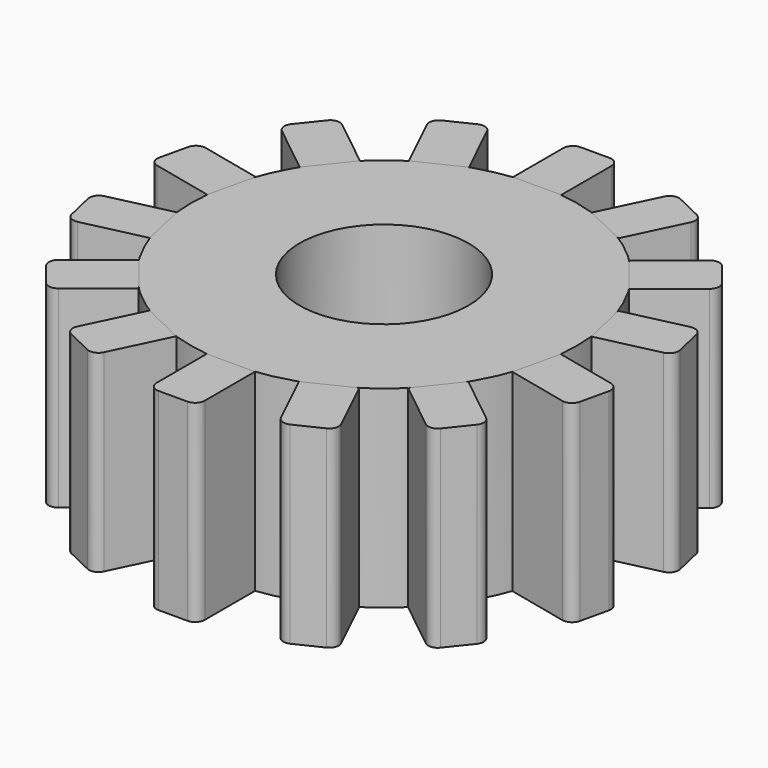
from build123d import *

# Parameters (mm, degrees)
F0_R     = 25.4
F0_R_2   = 11.1125
F2_DEPTH = 25.4
F3_COUNT = 14


with BuildPart() as f2:
    # F0 (on Top) → F2 (new body)
    with BuildSketch(Plane.XY):
        Circle(F0_R)
        Circle(F0_R_2, mode=Mode.SUBTRACT)
    extrude(amount=F2_DEPTH)


with BuildPart() as f2b:
    # F1 (on Top) → F2, piece 2 (new body)
    with BuildSketch(Plane.XY):
        with BuildLine():
            Line((-3.175, 33.4557812379), (-3.175, 25.2007812379))
            Line((-3.175, 25.2007812379), (3.175, 25.2007812379))
            Line((3.175, 25.2007812379), (3.175, 33.4557812379))
            ThreePointArc((3.175, 33.4557812379), (2.8030256121, 34.35380685), (1.905, 34.7257812379))
            Line((1.905, 34.7257812379), (-1.905, 34.7257812379))
            ThreePointArc((-1.905, 34.7257812379), (-2.8030256121, 34.35380685), (-3.175, 33.4557812379))
        make_face()
    extrude(amount=F2_DEPTH)


with BuildPart() as f3_1:
    # F3: instance of F2b
    add(f2b.part.rotate(Axis((0, 0, 0), (0, 0, -1)), 1 * 360 / F3_COUNT))


with BuildPart() as f3_2:
    # F3: instance of F2b
    add(f2b.part.rotate(Axis((0, 0, 0), (0, 0, -1)), 2 * 360 / F3_COUNT))


with BuildPart() as f3_3:
    # F3: instance of F2b
    add(f2b.part.rotate(Axis((0, 0, 0), (0, 0, -1)), 3 * 360 / F3_COUNT))


with BuildPart() as f3_4:
    # F3: instance of F2b
    add(f2b.part.rotate(Axis((0, 0, 0), (0, 0, -1)), 4 * 360 / F3_COUNT))


with BuildPart() as f3_5:
    # F3: instance of F2b
    add(f2b.part.rotate(Axis((0, 0, 0), (0, 0, -1)), 5 * 360 / F3_COUNT))


with BuildPart() as f3_6:
    # F3: instance of F2b
    add(f2b.part.rotate(Axis((0, 0, 0), (0, 0, -1)), 6 * 360 / F3_COUNT))


with BuildPart() as f3_7:
    # F3: instance of F2b
    add(f2b.part.rotate(Axis((0, 0, 0), (0, 0, -1)), 7 * 360 / F3_COUNT))


with BuildPart() as f3_8:
    # F3: instance of F2b
    add(f2b.part.rotate(Axis((0, 0, 0), (0, 0, -1)), 8 * 360 / F3_COUNT))


with BuildPart() as f3_9:
    # F3: instance of F2b
    add(f2b.part.rotate(Axis((0, 0, 0), (0, 0, -1)), 9 * 360 / F3_COUNT))


with BuildPart() as f3_10:
    # F3: instance of F2b
    add(f2b.part.rotate(Axis((0, 0, 0), (0, 0, -1)), 10 * 360 / F3_COUNT))


with BuildPart() as f3_11:
    # F3: instance of F2b
    add(f2b.part.rotate(Axis((0, 0, 0), (0, 0, -1)), 11 * 360 / F3_COUNT))


with BuildPart() as f3_12:
    # F3: instance of F2b
    add(f2b.part.rotate(Axis((0, 0, 0), (0, 0, -1)), 12 * 360 / F3_COUNT))


with BuildPart() as f3_13:
    # F3: instance of F2b
    add(f2b.part.rotate(Axis((0, 0, 0), (0, 0, -1)), 13 * 360 / F3_COUNT))


solid = Compound([f2.part, f2b.part, f3_1.part, f3_2.part, f3_3.part, f3_4.part, f3_5.part, f3_6.part, f3_7.part, f3_8.part, f3_9.part, f3_10.part, f3_11.part, f3_12.part, f3_13.part])
